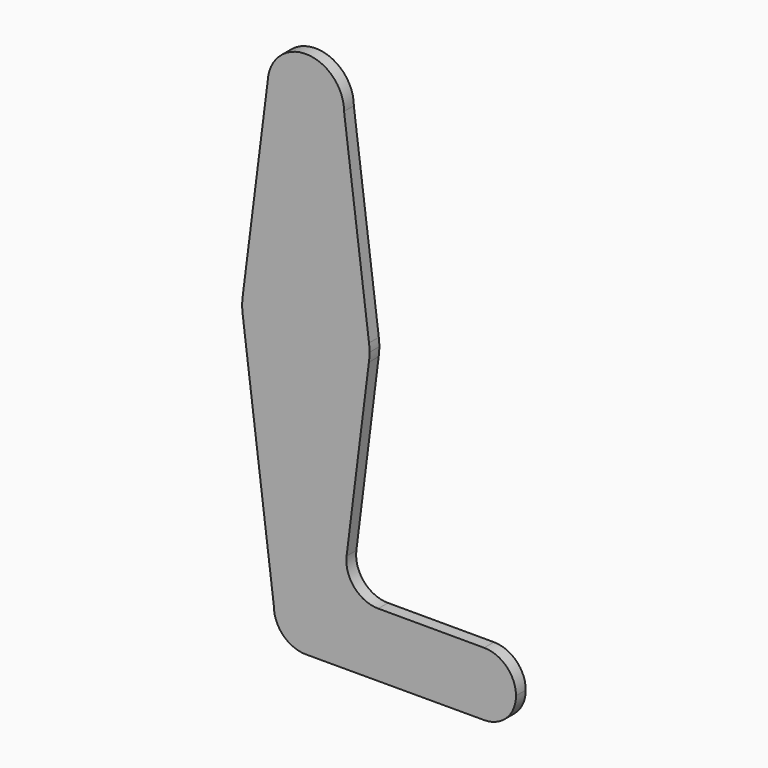
from build123d import *

# Parameters (mm, degrees)
F2_DEPTH = 3.048
F1_R     = 3.175
F1_R_2   = 38.1
F3_DEPTH = 25.4


with BuildPart() as f2:
    # F0 (on Front) → F2 (new body)
    with BuildSketch(Plane.XZ):
        with BuildLine():
            Line((7.970684, 0), (0, 0))
            Line((0, 0), (0, 7.970684))
            ThreePointArc((0, 7.970684), (-5.636125, 5.636125), (-7.970684, 0))
            ThreePointArc((-7.970684, 0), (-5.636125, -5.636125), (0, -7.970684))
            ThreePointArc((0, -7.970684), (5.636125, -5.636125), (7.970684, 0))
        make_face()
        with BuildLine():
            ThreePointArc((-7.970684, 0), (-5.636125, 5.636125), (0, 7.970684))
            Line((0, 7.970684), (0, 47.625))
            ThreePointArc((0, 47.625), (-10.497509, 51.591267), (-15.749548, 61.508174))
            Line((-15.749548, 61.508174), (-7.970684, 0))
        make_face()
        with BuildLine():
            Line((0, 63.5), (0, 47.625))
            ThreePointArc((0, 47.625), (10.406898, 51.512002), (15.717527, 61.269538))
            ThreePointArc((15.717527, 61.269538), (15.835583, 62.381993), (15.875, 63.5))
            ThreePointArc((15.875, 63.5), (15.843082, 64.506168), (15.747457, 65.508289))
            ThreePointArc((15.747457, 65.508289), (10.491283, 75.414219), (0, 79.375))
            Line((0, 79.375), (0, 63.5))
        make_face()
        with BuildLine():
            ThreePointArc((-15.749548, 61.508174), (-10.497509, 51.591267), (0, 47.625))
            Line((0, 47.625), (0, 63.5))
            Line((0, 63.5), (0, 79.375))
            ThreePointArc((0, 79.375), (-10.497509, 75.408733), (-15.749548, 65.491826))
            ThreePointArc((-15.749548, 65.491826), (-15.875, 63.5), (-15.749548, 61.508174))
        make_face()
        with BuildLine():
            ThreePointArc((7.970684, 0), (5.636125, -5.636125), (0, -7.970684))
            Line((0, -7.970684), (44.455925, -7.937498))
            ThreePointArc((44.455925, -7.937498), (38.839435, -5.614755), (36.5125, 0))
            Line((36.5125, 0), (7.970684, 0))
        make_face()
        with BuildLine():
            Line((0, 47.625), (0, 7.970684))
            ThreePointArc((0, 7.970684), (5.636125, 5.636125), (7.970684, 0))
            Line((7.970684, 0), (36.5125, 0))
            ThreePointArc((36.5125, 0), (38.839435, 5.614755), (44.455925, 7.937498))
            Line((44.455925, 7.937498), (18.03478, 7.957221))
            ThreePointArc((18.03478, 7.957221), (12.077574, 10.649413), (10.152316, 16.896779))
            Line((10.152316, 16.896779), (15.717527, 61.269538))
            ThreePointArc((15.717527, 61.269538), (10.406898, 51.512002), (0, 47.625))
        make_face()
        with BuildLine():
            Line((0, 104.775), (0, 79.375))
            ThreePointArc((0, 79.375), (10.491283, 75.414219), (15.747457, 65.508289))
            Line((15.747457, 65.508289), (9.525, 114.3))
            ThreePointArc((9.525, 114.3), (6.735192, 107.564808), (0, 104.775))
        make_face()
        with BuildLine():
            ThreePointArc((-15.749548, 65.491826), (-10.497509, 75.408733), (0, 79.375))
            Line((0, 79.375), (0, 104.775))
            ThreePointArc((0, 104.775), (-6.917937, 107.752652), (-9.510581, 114.823894))
            Line((-9.510581, 114.823894), (-15.749548, 65.491826))
        make_face()
        with BuildLine():
            Line((0, 7.970684), (0, 0))
            Line((0, 0), (7.970684, 0))
            ThreePointArc((7.970684, 0), (5.636125, 5.636125), (0, 7.970684))
        make_face()
        with BuildLine():
            ThreePointArc((44.455925, 7.937498), (38.839435, 5.614755), (36.5125, 0))
            ThreePointArc((36.5125, 0), (38.839435, -5.614755), (44.455925, -7.937498))
            ThreePointArc((44.455925, -7.937498), (50.064755, -5.610565), (52.3875, 0))
            ThreePointArc((52.3875, 0), (50.064755, 5.610565), (44.455925, 7.937498))
        make_face()
        with BuildLine():
            ThreePointArc((-9.510581, 114.823894), (-6.917937, 107.752652), (0, 104.775))
            ThreePointArc((0, 104.775), (6.735192, 107.564808), (9.525, 114.3))
            ThreePointArc((9.525, 114.3), (0.262046, 123.821395), (-9.510581, 114.823894))
        make_face()
    extrude(amount=F2_DEPTH)

    # F1 (on Front) → F3 (cut)
    with BuildSketch(Plane.XZ):
        Circle(F1_R)
        with Locations((0, 114.3)):
            Circle(F1_R)
        with Locations((44.45, 0)):
            Circle(F1_R)
        with Locations((0, 167.433287)):
            Circle(F1_R_2)
        with Locations((-3.175, 100.0252)):
            Circle(F1_R)
    extrude(amount=-F3_DEPTH, mode=Mode.SUBTRACT)


solid = f2.part
